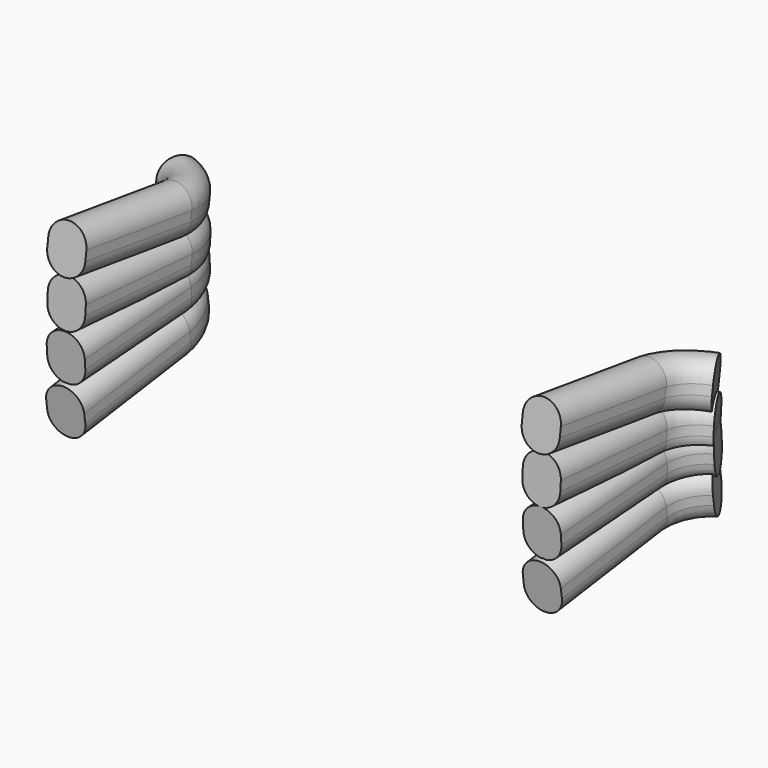
from build123d import *

# Parameters (mm, degrees)
BODY001_PLACEMENT_ANGLE   = 356
BODY002_PLACEMENT_ANGLE   = 352
BODY003_PLACEMENT_ANGLE   = 8
BODY_PLACEMENT_ANGLE      = 4
BODY005_PLACEMENT_ANGLE   = 4
BODY007_PLACEMENT_ANGLE   = 8
BODY006_PLACEMENT_ANGLE   = 8
BODY004_PLACEMENT_ANGLE   = 4
FUSION001_PLACEMENT_ANGLE = 180


with BuildPart() as body001:
    # AdditivePipe001: sweep along a path in Sketch002
    with BuildLine(Plane.XY) as additivepipe001_path:
        Line((0, 0), (0, 7))
        ThreePointArc((0, 7), (0.49422, 8.472172), (1.658312, 9.5))
    # Sketch003 → AdditivePipe001 (sweep)
    with BuildSketch(Plane.XZ):
        with BuildLine():
            ThreePointArc((1, 0), (0, 1), (-1, 0))
            Line((-1, 0), (-1, -0.5))
            ThreePointArc((-1, -0.5), (0, -1.5), (1, -0.5))
            Line((1, 0), (1, -0.5))
        make_face()
    sweep(path=additivepipe001_path.line)


with BuildPart() as body001_1:
    # Body001 placement: moved
    add(body001.part.moved(Location((0, 0, 2.5))).rotate(Axis((0, 0, 2.5), (1, 0, 0)), BODY001_PLACEMENT_ANGLE))


with BuildPart() as body002:
    # AdditivePipe002: sweep along a path in Sketch004
    with BuildLine(Plane.XY) as additivepipe002_path:
        Line((0, 0), (0, 7))
        ThreePointArc((0, 7), (0.49422, 8.472172), (1.658312, 9.5))
    # Sketch005 → AdditivePipe002 (sweep)
    with BuildSketch(Plane.XZ):
        with BuildLine():
            ThreePointArc((1, 0), (0, 1), (-1, 0))
            Line((-1, 0), (-1, -0.5))
            ThreePointArc((-1, -0.5), (0, -1.5), (1, -0.5))
            Line((1, 0), (1, -0.5))
        make_face()
    sweep(path=additivepipe002_path.line)


with BuildPart() as body002_1:
    # Body002 placement: moved
    add(body002.part.moved(Location((0, 0, 5))).rotate(Axis((0, 0, 5), (1, 0, 0)), BODY002_PLACEMENT_ANGLE))


with BuildPart() as body003:
    # AdditivePipe003: sweep along a path in Sketch006
    with BuildLine(Plane.XY) as additivepipe003_path:
        Line((0, 0), (0, 7))
        ThreePointArc((0, 7), (0.49422, 8.472172), (1.658312, 9.5))
    # Sketch007 → AdditivePipe003 (sweep)
    with BuildSketch(Plane.XZ):
        with BuildLine():
            ThreePointArc((1, 0), (0, 1), (-1, 0))
            Line((-1, 0), (-1, -0.5))
            ThreePointArc((-1, -0.5), (0, -1.5), (1, -0.5))
            Line((1, 0), (1, -0.5))
        make_face()
    sweep(path=additivepipe003_path.line)


with BuildPart() as body003_1:
    # Body003 placement: moved
    add(body003.part.moved(Location((0, 0, -2.5))).rotate(Axis((0, 0, -2.5), (1, 0, 0)), BODY003_PLACEMENT_ANGLE))


with BuildPart() as fusion:
    # AdditivePipe: sweep along a path in Sketch
    with BuildLine(Plane.XY) as additivepipe_path:
        Line((0, 0), (0, 7))
        ThreePointArc((0, 7), (0.49422, 8.472172), (1.658312, 9.5))
    # Sketch001 → AdditivePipe (sweep)
    with BuildSketch(Plane.XZ):
        with BuildLine():
            ThreePointArc((1, 0), (0, 1), (-1, 0))
            Line((-1, 0), (-1, -0.5))
            ThreePointArc((-1, -0.5), (0, -1.5), (1, -0.5))
            Line((1, 0), (1, -0.5))
        make_face()
    sweep(path=additivepipe_path.line)


with BuildPart() as fusion_1:
    # Body placement: moved
    add(fusion.part.rotate(Axis((0, 0, 0), (1, 0, 0)), BODY_PLACEMENT_ANGLE))

    # Fusion: union Body001, Body002, Body003
    add(body001_1.part)
    add(body002_1.part)
    add(body003_1.part)


with BuildPart() as body005:
    # AdditivePipe005: sweep along a path in Sketch008
    with BuildLine(Plane.XY) as additivepipe005_path:
        Line((0, 0), (0, 7))
        ThreePointArc((0, 7), (0.49422, 8.472172), (1.658312, 9.5))
    # Sketch010 → AdditivePipe005 (sweep)
    with BuildSketch(Plane.XZ):
        with BuildLine():
            ThreePointArc((1, 0), (0, 1), (-1, 0))
            Line((-1, 0), (-1, -0.5))
            ThreePointArc((-1, -0.5), (0, -1.5), (1, -0.5))
            Line((1, 0), (1, -0.5))
        make_face()
    sweep(path=additivepipe005_path.line)


with BuildPart() as body005_1:
    # Body005 placement: moved
    add(body005.part.moved(Location((0, 0, 2.5))).rotate(Axis((0, 0, 2.5), (-1, 0, 0)), BODY005_PLACEMENT_ANGLE))


with BuildPart() as body007:
    # AdditivePipe006: sweep along a path in Sketch012
    with BuildLine(Plane.XY) as additivepipe006_path:
        Line((0, 0), (0, 7))
        ThreePointArc((0, 7), (0.49422, 8.472172), (1.658312, 9.5))
    # Sketch013 → AdditivePipe006 (sweep)
    with BuildSketch(Plane.XZ):
        with BuildLine():
            ThreePointArc((1, 0), (0, 1), (-1, 0))
            Line((-1, 0), (-1, -0.5))
            ThreePointArc((-1, -0.5), (0, -1.5), (1, -0.5))
            Line((1, 0), (1, -0.5))
        make_face()
    sweep(path=additivepipe006_path.line)


with BuildPart() as body007_1:
    # Body007 placement: moved
    add(body007.part.moved(Location((0, 0, 5))).rotate(Axis((0, 0, 5), (-1, 0, 0)), BODY007_PLACEMENT_ANGLE))


with BuildPart() as body006:
    # AdditivePipe007: sweep along a path in Sketch014
    with BuildLine(Plane.XY) as additivepipe007_path:
        Line((0, 0), (0, 7))
        ThreePointArc((0, 7), (0.49422, 8.472172), (1.658312, 9.5))
    # Sketch015 → AdditivePipe007 (sweep)
    with BuildSketch(Plane.XZ):
        with BuildLine():
            ThreePointArc((1, 0), (0, 1), (-1, 0))
            Line((-1, 0), (-1, -0.5))
            ThreePointArc((-1, -0.5), (0, -1.5), (1, -0.5))
            Line((1, 0), (1, -0.5))
        make_face()
    sweep(path=additivepipe007_path.line)


with BuildPart() as body006_1:
    # Body006 placement: moved
    add(body006.part.moved(Location((0, 0, -2.5))).rotate(Axis((0, 0, -2.5), (1, 0, 0)), BODY006_PLACEMENT_ANGLE))


with BuildPart() as fusion001:
    # AdditivePipe004: sweep along a path in Sketch009
    with BuildLine(Plane.XY) as additivepipe004_path:
        Line((0, 0), (0, 7))
        ThreePointArc((0, 7), (0.49422, 8.472172), (1.658312, 9.5))
    # Sketch011 → AdditivePipe004 (sweep)
    with BuildSketch(Plane.XZ):
        with BuildLine():
            ThreePointArc((1, 0), (0, 1), (-1, 0))
            Line((-1, 0), (-1, -0.5))
            ThreePointArc((-1, -0.5), (0, -1.5), (1, -0.5))
            Line((1, 0), (1, -0.5))
        make_face()
    sweep(path=additivepipe004_path.line)


with BuildPart() as fusion001_1:
    # Body004 placement: moved
    add(fusion001.part.rotate(Axis((0, 0, 0), (1, 0, 0)), BODY004_PLACEMENT_ANGLE))

    # Fusion001: union Body005, Body007, Body006
    add(body005_1.part)
    add(body007_1.part)
    add(body006_1.part)


with BuildPart() as fusion001_2:
    # Fusion001 placement: moved
    add(fusion001_1.part.moved(Location((-25, 0, 2))).rotate(Axis((-25, 0, 2), (0, 1, 0)), FUSION001_PLACEMENT_ANGLE))


solid = Compound([fusion_1.part, fusion001_2.part])
